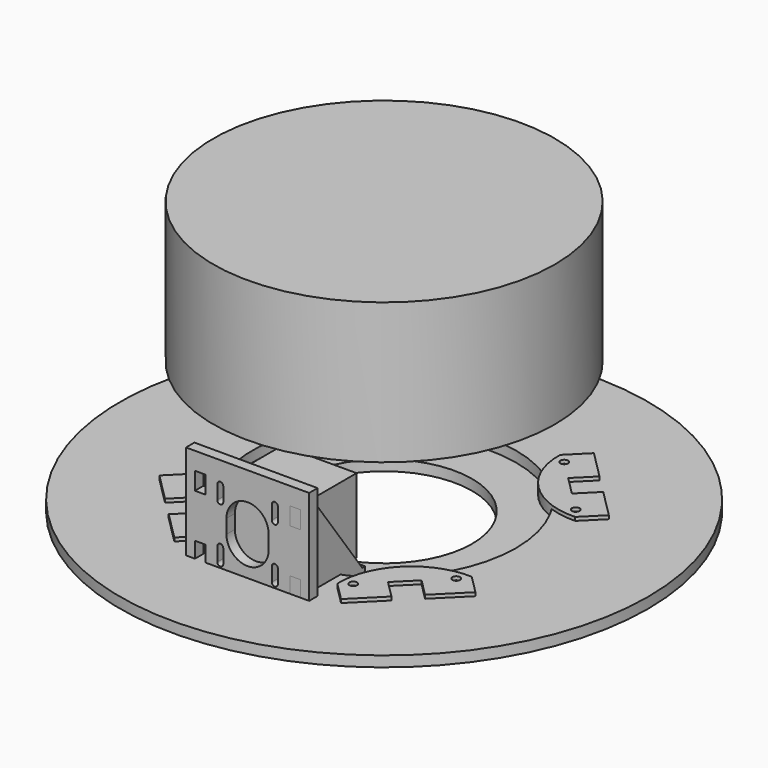
from build123d import *

# Parameters (mm, degrees)
SKETCH_R        = 150
SKETCH_R_2      = 75
PAD_DEPTH       = 6
SKETCH001_R     = 27.5
PAD001_DEPTH    = 2
ARRAY_COUNT     = 4
SKETCH002_W     = 210
SKETCH002_H     = 210
PAD002_DEPTH    = 6
FILLET_R        = 25
SKETCH003_R     = 50
POCKET_DEPTH    = 6.001
SKETCH004_W     = 50
SKETCH004_H     = 5.8
SKETCH004_W_2   = 5.6
SKETCH004_H_2   = 10
POCKET001_DEPTH = 6.001
SKETCH005_R     = 97
PAD004_DEPTH    = 80
PAD003_DEPTH    = 6
SKETCH007_W     = 5.9
SKETCH007_H     = 10
POCKET002_DEPTH = 198.244179
POCKET003_DEPTH = 6.001
SKETCH010_W     = 42.3
SKETCH010_H     = 42.3
PAD006_DEPTH    = 44
PAD005_DEPTH    = 6
SKETCH011_W     = 6
SKETCH011_H     = 10
SKETCH011_W_2   = 10
SKETCH011_H_2   = 6
PAD007_DEPTH    = 6
PAD008_DEPTH    = 6
SKETCH013_R     = 2.2
POCKET004_DEPTH = 6.001
ARRAY001_COUNT  = 4


with BuildPart() as pad:
    # Sketch → Pad (new body)
    with BuildSketch(Plane.XY):
        Circle(SKETCH_R)
        Circle(SKETCH_R_2, mode=Mode.SUBTRACT)
    extrude(amount=PAD_DEPTH)


with BuildPart() as ref_feet:
    # Sketch001 → Pad001 (new body)
    with BuildSketch(Plane.XY):
        with Locations((77.781746, 77.781746)):
            Circle(SKETCH001_R)
    extrude(amount=PAD001_DEPTH)

    # Array: ref-feet ×4 about axis
    array_axis = Axis((0, 0, 0), (0, 0, 1))


with BuildPart() as ref_feet_1:
    add(ref_feet.part)
    for i in range(1, ARRAY_COUNT):
        add(ref_feet.part.rotate(array_axis, i * 360 / ARRAY_COUNT))


with BuildPart() as pocket001:
    # Sketch002 → Pad002 (new body)
    with BuildSketch(Plane.XY):
        Rectangle(SKETCH002_W, SKETCH002_H)
    extrude(amount=-PAD002_DEPTH)

    # Fillet
    fillet_edges = [pocket001.edges().sort_by_distance(p)[0] for p in [
        (-105, 105, -3),
        (105, 105, -3),
        (-105, -105, -3),
        (105, -105, -3),
    ]]
    fillet(fillet_edges, radius=FILLET_R)

    # Sketch003 → Pocket (cut, through all)
    with BuildSketch(Plane.XY):
        Circle(SKETCH003_R)
    extrude(amount=-POCKET_DEPTH, mode=Mode.SUBTRACT)

    # Sketch004 → Pocket001 (cut, through all)
    with BuildSketch(Plane.XY):
        with Locations((0, -94.1)):
            Rectangle(SKETCH004_W, SKETCH004_H)
        with Locations((-26.8, -56.2)):
            Rectangle(SKETCH004_W_2, SKETCH004_H_2)
        with Locations((-26.8, -81.2)):
            Rectangle(SKETCH004_W_2, SKETCH004_H_2)
        with Locations((26.8, -56.2)):
            Rectangle(SKETCH004_W_2, SKETCH004_H_2)
        with Locations((26.8, -81.2)):
            Rectangle(SKETCH004_W_2, SKETCH004_H_2)
    extrude(amount=-POCKET001_DEPTH, mode=Mode.SUBTRACT)


with BuildPart() as ref_body:
    # Sketch005 → Pad004 (new body)
    with BuildSketch(Plane.XY.offset(75)):
        Circle(SKETCH005_R)
    extrude(amount=PAD004_DEPTH)


with BuildPart() as pocket003:
    # Sketch006 → Pad003 (new body)
    with BuildSketch(Plane.XZ.offset(97)):
        Polygon((-35, 60), (35, 60), (35, 0), (25, 0), (25, -5.6), (-25, -5.6), (-25, 0), (-35, 0), align=None)
    extrude(amount=-PAD003_DEPTH)

    # Sketch007 → Pocket002 (cut, through all)
    with BuildSketch(Plane.XZ.offset(97)):
        with Locations((-26.95, 45)):
            Rectangle(SKETCH007_W, SKETCH007_H)
        with Locations((-26.95, 10)):
            Rectangle(SKETCH007_W, SKETCH007_H)
    pocket002 = extrude(amount=-POCKET002_DEPTH, mode=Mode.SUBTRACT)

    # Mirrored: Pocket002 across Sketch007 V_Axis
    add(pocket002.mirror(Plane(origin=(0, -97, 0), x_dir=(0, -1, 0), z_dir=(1, 0, 0))), mode=Mode.SUBTRACT)

    # Sketch008 → Pocket003 (cut, through all)
    with BuildSketch(Plane.XZ.offset(97)):
        with BuildLine():
            ThreePointArc((13.8, 39.5), (15.5, 37.8), (17.2, 39.5))
            Line((17.2, 39.5), (17.2, 47.5))
            ThreePointArc((17.2, 47.5), (15.5, 49.2), (13.8, 47.5))
            Line((13.8, 39.5), (13.8, 47.5))
        make_face()
        with BuildLine():
            ThreePointArc((-13.8, 47.5), (-15.5, 49.2), (-17.2, 47.5))
            Line((-17.2, 47.5), (-17.2, 39.5))
            ThreePointArc((-17.2, 39.5), (-15.5, 37.8), (-13.8, 39.5))
            Line((-13.8, 47.5), (-13.8, 39.5))
        make_face()
        with BuildLine():
            ThreePointArc((-12, 24), (0, 12), (12, 24))
            Line((12, 24), (12, 32))
            ThreePointArc((12, 32), (0, 44), (-12, 32))
            Line((-12, 24), (-12, 32))
        make_face()
        with BuildLine():
            ThreePointArc((13.8, 8.5), (15.5, 6.8), (17.2, 8.5))
            Line((17.2, 8.5), (17.2, 16.5))
            ThreePointArc((17.2, 16.5), (15.5, 18.2), (13.8, 16.5))
            Line((13.8, 8.5), (13.8, 16.5))
        make_face()
        with BuildLine():
            ThreePointArc((-13.8, 16.5), (-15.5, 18.2), (-17.2, 16.5))
            Line((-17.2, 16.5), (-17.2, 8.5))
            ThreePointArc((-17.2, 8.5), (-15.5, 6.8), (-13.8, 8.5))
            Line((-13.8, 16.5), (-13.8, 8.5))
        make_face()
    extrude(amount=-POCKET003_DEPTH, mode=Mode.SUBTRACT)


with BuildPart() as pad006:
    # Sketch010 → Pad006 (new body)
    with BuildSketch(Plane.XZ.offset(90)):
        with Locations((0, 23.51482)):
            Rectangle(SKETCH010_W, SKETCH010_H)
    extrude(amount=-PAD006_DEPTH)


with BuildPart() as bracket_side:
    # Sketch009 → Pad005 (new body)
    with BuildSketch(Plane(origin=(-24, -91, 0), x_dir=(0, 1, 0), z_dir=(1, 0, 0))):
        Polygon((0, 53), (0, 0), (40, 0), (40, 3), (38, 3), (3, 51), (3, 53), align=None)
    extrude(amount=-PAD005_DEPTH)

    # Sketch011 → Pad007 (new body)
    with BuildSketch(Plane(origin=(-24, -91, 0), x_dir=(0, 1, 0), z_dir=(1, 0, 0))):
        with Locations((-3, 45)):
            Rectangle(SKETCH011_W, SKETCH011_H)
        with Locations((-3, 10)):
            Rectangle(SKETCH011_W, SKETCH011_H)
        with Locations((35, -3)):
            Rectangle(SKETCH011_W_2, SKETCH011_H_2)
        with Locations((10, -3)):
            Rectangle(SKETCH011_W_2, SKETCH011_H_2)
    extrude(amount=-PAD007_DEPTH)


with BuildPart() as part_mirroring:
    # Part__Mirroring: instance of bracket-side
    add(bracket_side.part.mirror(Plane(origin=(0, 0, 0), x_dir=(0, -1, 0), z_dir=(1, 0, 0))))


with BuildPart() as obj1:
    # Sketch012 → Pad008 (new body)
    with BuildSketch(Plane.XY.offset(2)):
        with BuildLine():
            ThreePointArc((36.769553, 79.195959), (48.76451, 48.76451), (79.195959, 36.769553))
            Line((89.802561, 47.376154), (79.195959, 36.769553))
            Line((47.376154, 89.802561), (89.802561, 47.376154))
            Line((36.769553, 79.195959), (47.376154, 89.802561))
        make_face()
    extrude(amount=PAD008_DEPTH)

    # Sketch013 → Pocket004 (cut, through all)
    with BuildSketch(Plane.XY.offset(8)):
        with Locations((42.426407, 74.953319)):
            Circle(SKETCH013_R)
        with Locations((74.953319, 42.426407)):
            Circle(SKETCH013_R)
        Polygon((63.286057, 73.892659), (53.386562, 63.993164), (63.993164, 53.386562), (73.892659, 63.286057), align=None)
    extrude(amount=-POCKET004_DEPTH, mode=Mode.SUBTRACT)

    # Array001: obj1 ×4 about axis
    array001_axis = Axis((0, 0, 0), (0, 0, 1))


with BuildPart() as obj1_1:
    add(obj1.part)
    for i in range(1, ARRAY001_COUNT):
        add(obj1.part.rotate(array001_axis, i * 360 / ARRAY001_COUNT))


solid = Compound([pad.part, ref_feet_1.part, pocket001.part, ref_body.part, pocket003.part, pad006.part, part_mirroring.part, obj1_1.part])
